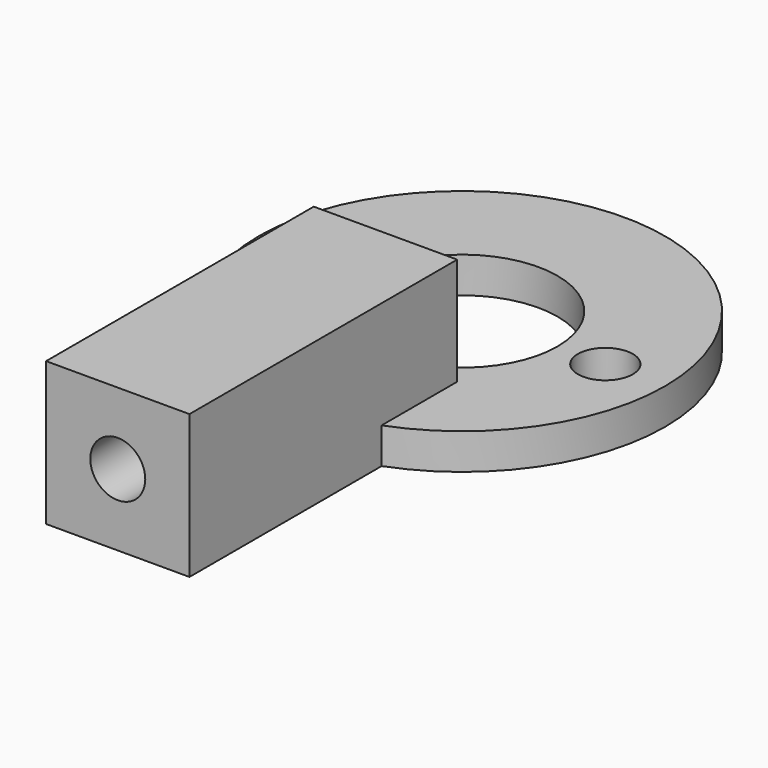
from build123d import *

# Parameters (mm, degrees)
SKETCH_R        = 8.5
PAD_DEPTH       = 1.5
SKETCH001_R     = 4
SKETCH001_R_2   = 1.15
POCKET_DEPTH    = 5
SKETCH002_W     = 6
SKETCH002_H     = 14
PAD001_DEPTH    = 6
SKETCH003_R     = 1.15
POCKET001_DEPTH = 15


with BuildPart() as part:
    # Sketch → Pad (new body)
    with BuildSketch(Plane.XY):
        Circle(SKETCH_R)
    extrude(amount=PAD_DEPTH)

    # Sketch001 → Pocket (cut)
    with BuildSketch(Plane.XY.offset(1.5)):
        Circle(SKETCH001_R)
        with Locations((-6, 0)):
            Circle(SKETCH001_R_2)
        with Locations((6, 0)):
            Circle(SKETCH001_R_2)
    extrude(amount=-POCKET_DEPTH, mode=Mode.SUBTRACT)

    # Sketch002 → Pad001 (new body)
    with BuildSketch(Plane(origin=(0, 0, 0), x_dir=(1, 0, 0), z_dir=(0, 0, -1))):
        with Locations((0, 11)):
            Rectangle(SKETCH002_W, SKETCH002_H)
    extrude(amount=-PAD001_DEPTH)

    # Sketch003 → Pocket001 (cut)
    with BuildSketch(Plane.XZ.offset(18)):
        with Locations((0, 3)):
            Circle(SKETCH003_R)
    extrude(amount=-POCKET001_DEPTH, mode=Mode.SUBTRACT)


solid = part.part
